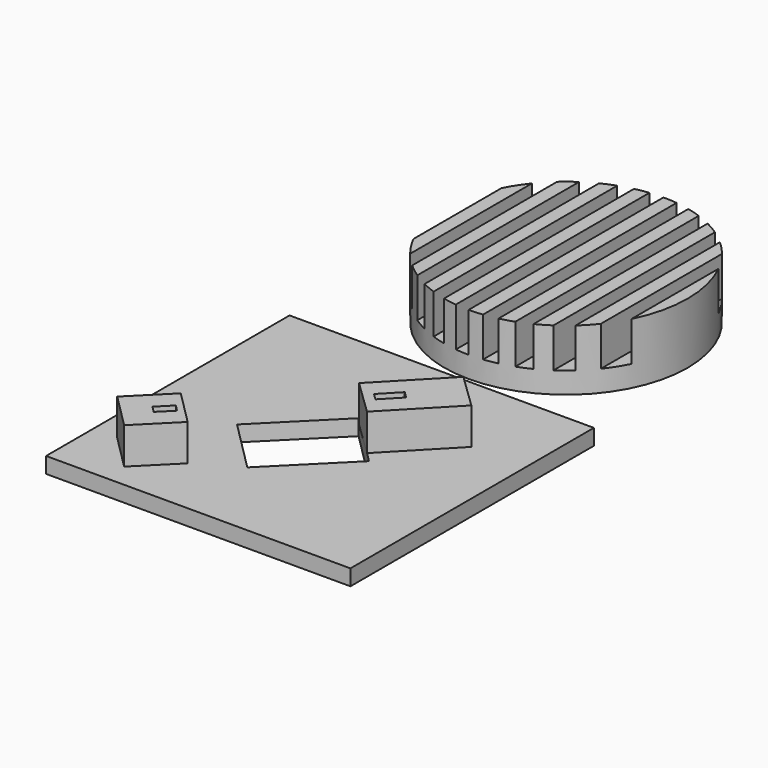
from build123d import *

# Parameters (mm, degrees)
SKETCH006_AS_DRAWN_W                      = 1.464365
SKETCH006_AS_DRAWN_H                      = 3.015419
EXTRUDE003_DEPTH                          = 4.5
EXTRUDE003_DEPTH_BACK                     = 2
EXTRUDE003_ONTO_SKETCH006_PLACEMENT_ANGLE = 135
BOX003_W                                  = 8
BOX003_H                                  = 8.2
BOX003_DEPTH                              = 6
BOX003_PLACEMENT_ANGLE                    = 135
BOX005_W                                  = 15.7
BOX005_H                                  = 12
BOX005_DEPTH                              = 2.6
BOX005_PLACEMENT_ANGLE                    = 45
BOX_W                                     = 50
BOX_H                                     = 50
BOX_DEPTH                                 = 2.6
SKETCH005_AS_DRAWN_W                      = 1.499127
SKETCH005_AS_DRAWN_H                      = 3.983619
EXTRUDE002_DEPTH                          = 4.5
EXTRUDE002_DEPTH_BACK                     = 1
EXTRUDE002_ONTO_SKETCH005_PLACEMENT_ANGLE = 136
BOX004_W                                  = 8
BOX004_H                                  = 13.5
BOX004_DEPTH                              = 6
BOX004_PLACEMENT_ANGLE                    = 136
SKETCH002_R                               = 2.35
EXTRUDE001_DEPTH                          = 6
SKETCH001_W                               = 2.23349
SKETCH001_H                               = 39.923653
SKETCH001_W_2                             = 2.233494
SKETCH001_H_2                             = 40.016715
SKETCH001_W_3                             = 2.204327
SKETCH001_H_3                             = 40.844541
SKETCH001_W_4                             = 2.233492
SKETCH001_H_4                             = 40.109777
SKETCH001_W_5                             = 2.233491
EXTRUDE_DEPTH                             = 6.5
CYLINDER001_R                             = 20
CYLINDER001_DEPTH                         = 10
CUT001_PLACEMENT_ANGLE                    = 180


with BuildPart() as extrude003:
    # Sketch006 as drawn → Extrude003 (new, two sides)
    with BuildSketch(Plane.XY) as extrude003_sk:
        with Locations((3.985229, 2.511082)):
            Rectangle(SKETCH006_AS_DRAWN_W, SKETCH006_AS_DRAWN_H)
    extrude(amount=EXTRUDE003_DEPTH)
    extrude(extrude003_sk.sketch, amount=-EXTRUDE003_DEPTH_BACK)


with BuildPart() as extrude003_1:
    # Extrude003 onto Sketch006 placement: moved
    add(extrude003.part.moved(Location((15.55, 9.66, 14.79))).rotate(Axis((15.55, 9.66, 14.79), (0, 0, 1)), EXTRUDE003_ONTO_SKETCH006_PLACEMENT_ANGLE))


with BuildPart() as extrude003_2:
    # Extrude003 placement: moved
    add(extrude003_1.part.moved(Location((0, 0, -4.5))))


with BuildPart() as cut004:
    # Box003 → Box003 (new body)
    with BuildSketch(Plane.XY):
        with Locations((4, 4.1)):
            Rectangle(BOX003_W, BOX003_H)
    extrude(amount=BOX003_DEPTH)


with BuildPart() as cut004_1:
    # Box003 placement: moved
    add(cut004.part.moved(Location((15.55, 9.66, 8.79))).rotate(Axis((15.55, 9.66, 8.79), (0, 0, 1)), BOX003_PLACEMENT_ANGLE))

    # Cut004: cut Extrude003
    add(extrude003_2.part, mode=Mode.SUBTRACT)


with BuildPart() as cut004_2:
    # Cut004 placement: moved
    add(cut004_1.part.moved(Location((-0.08085, 0.07824, -6.2))))


with BuildPart() as cube005:
    # Box005 → Box005 (new body)
    with BuildSketch(Plane.XY):
        with Locations((7.85, 6)):
            Rectangle(BOX005_W, BOX005_H)
    extrude(amount=BOX005_DEPTH)


with BuildPart() as cube005_1:
    # Box005 placement: moved
    add(cube005.part.moved(Location((22.146447, 13.646447, 0))).rotate(Axis((22.146447, 13.646447, 0), (0, 0, 1)), BOX005_PLACEMENT_ANGLE))


with BuildPart() as cut:
    # Box → Box (new body)
    with BuildSketch(Plane.XY):
        with Locations((25, 25)):
            Rectangle(BOX_W, BOX_H)
    extrude(amount=BOX_DEPTH)

    # Cut: cut Cube005
    add(cube005_1.part, mode=Mode.SUBTRACT)


with BuildPart() as extrude002:
    # Sketch005 as drawn → Extrude002 (new, two sides)
    with BuildSketch(Plane.XY) as extrude002_sk:
        with Locations((4.002213, 9.994158)):
            Rectangle(SKETCH005_AS_DRAWN_W, SKETCH005_AS_DRAWN_H)
    extrude(amount=EXTRUDE002_DEPTH)
    extrude(extrude002_sk.sketch, amount=-EXTRUDE002_DEPTH_BACK)


with BuildPart() as extrude002_1:
    # Extrude002 onto Sketch005 placement: moved
    add(extrude002.part.moved(Location((47.02, 42.01, 14.32))).rotate(Axis((47.02, 42.01, 14.32), (0, 0, 1)), EXTRUDE002_ONTO_SKETCH005_PLACEMENT_ANGLE))


with BuildPart() as extrude002_2:
    # Extrude002 placement: moved
    add(extrude002_1.part.moved(Location((0, 0, -4.5))))


with BuildPart() as fusion:
    # Box004 → Box004 (new body)
    with BuildSketch(Plane.XY):
        with Locations((4, 6.75)):
            Rectangle(BOX004_W, BOX004_H)
    extrude(amount=BOX004_DEPTH)


with BuildPart() as fusion_1:
    # Box004 placement: moved
    add(fusion.part.moved(Location((47.02, 42.01, 8.32))).rotate(Axis((47.02, 42.01, 8.32), (0, 0, 1)), BOX004_PLACEMENT_ANGLE))

    # Cut003: cut Extrude002
    add(extrude002_2.part, mode=Mode.SUBTRACT)


with BuildPart() as fusion_2:
    # Cut003 placement: moved
    add(fusion_1.part.moved(Location((-5.96, -6, -5.7))))

    # Fusion: union Cut004, Cut
    add(cut004_2.part)
    add(cut.part)


with BuildPart() as extrude001:
    # Sketch002 → Extrude001 (new body)
    with BuildSketch(Plane.XY):
        with Locations((25.84182, 74.524612)):
            Circle(SKETCH002_R)
    extrude(amount=EXTRUDE001_DEPTH)


with BuildPart() as extrude001_1:
    # Extrude001 placement: moved
    add(extrude001.part.moved(Location((0, 0, -2.75))))


with BuildPart() as extrude_body:
    # Sketch001 (on Cylinder) → Extrude (new body)
    with BuildSketch(Plane(origin=(25.88, -24.43, 1.58), x_dir=(1, 0, 0), z_dir=(0, 0, 1))):
        with Locations((3.379402, 0.007826)):
            Rectangle(SKETCH001_W, SKETCH001_H)
        with Locations((7.846387, 0.007826)):
            Rectangle(SKETCH001_W_2, SKETCH001_H)
        with Locations((12.313369, 0.054358)):
            Rectangle(SKETCH001_W, SKETCH001_H_2)
        with Locations((16.780351, 0.054358)):
            Rectangle(SKETCH001_W_2, SKETCH001_H_2)
        with Locations((-1.102163, -0.266493)):
            Rectangle(SKETCH001_W_3, SKETCH001_H_3)
        with Locations((-5.554563, 0.100888)):
            Rectangle(SKETCH001_W_4, SKETCH001_H_4)
        with Locations((-10.021547, 0.054358)):
            Rectangle(SKETCH001_W_4, SKETCH001_H_2)
        with Locations((-14.48853, 0.054358)):
            Rectangle(SKETCH001_W_4, SKETCH001_H_2)
        with Locations((-18.955512, 0.100888)):
            Rectangle(SKETCH001_W_5, SKETCH001_H_4)
    extrude(amount=EXTRUDE_DEPTH)


with BuildPart() as cut005:
    # Cylinder001 → Cylinder001 (new body)
    with BuildSketch(Plane(origin=(25.88, -24.43, 1.58), x_dir=(1, 0, 0), z_dir=(0, 0, 1))):
        Circle(CYLINDER001_R)
    extrude(amount=CYLINDER001_DEPTH)

    # Cut001: cut Extrude body
    add(extrude_body.part, mode=Mode.SUBTRACT)


with BuildPart() as cut005_1:
    # Cut001 placement: moved
    add(cut005.part.moved(Location((0, 50, 12))).rotate(Axis((0, 50, 12), (1, 0, 0)), CUT001_PLACEMENT_ANGLE))

    # Cut005: cut Extrude001
    add(extrude001_1.part, mode=Mode.SUBTRACT)


with BuildPart() as cut005_2:
    # Cut005 placement: moved
    add(cut005_1.part.moved(Location((0, 0, -0.4))))


solid = Compound([fusion_2.part, cut005_2.part])
